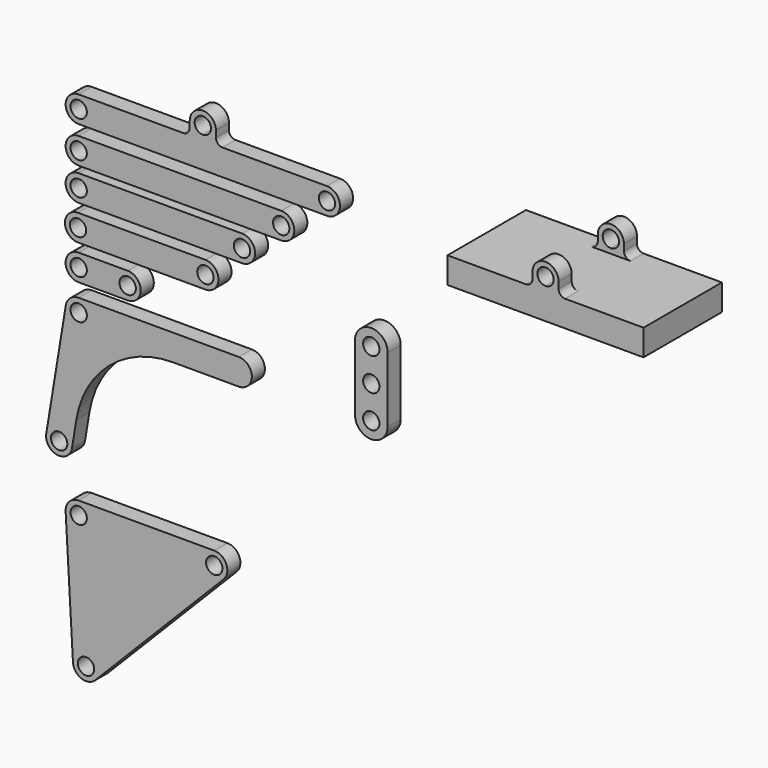
from build123d import *

# Parameters (mm, degrees)
F0_R      = 2.5
F1_DEPTH  = 5
F2_R      = 2.5
F3_DEPTH  = 5
F4_R      = 2.5
F5_DEPTH  = 5
F6_R      = 2.5
F7_DEPTH  = 5
F8_R      = 2.5
F9_DEPTH  = 5
F10_R     = 2.5
F11_DEPTH = 5
F12_R     = 2.5
F13_DEPTH = 5
F14_R     = 2.5
F15_DEPTH = 5
F17_DEPTH = 15
F18_W     = 20
F18_H     = 17.6143067669
F19_DEPTH = 190.8756025167


with BuildPart() as f1:
    # F0 (on Front) → F1 (new body)
    with BuildSketch(Plane.XZ):
        with BuildLine():
            Line((49, 4), (0, 4))
            ThreePointArc((0, 4), (-2.5898098924, 3.0484233173), (-3.9474184316, 0.6464423607))
            Line((-3.9474184316, 0.6464423607), (-9.9270102684, -35.8671781317))
            ThreePointArc((-9.9270102684, -35.8671781317), (-6.6260341975, -40.4610389241), (-2.0321734051, -37.1600628532))
            Line((-2.0321734051, -37.1600628532), (-0.7206943908, -29.1516822945))
            ThreePointArc((-0.7206943908, -29.1516822945), (9.4613696537, -11.1368251203), (28.8849438463, -4))
            Line((28.8849438463, -4), (49, -4))
            ThreePointArc((49, -4), (53, 0), (49, 4))
        make_face()
        with Locations((-5.9795918367, -36.5136204924)):
            Circle(F0_R, mode=Mode.SUBTRACT)
        Circle(F0_R, mode=Mode.SUBTRACT)
    extrude(amount=F1_DEPTH)


with BuildPart() as f3:
    # F2 (on Front) → F3 (new body)
    with BuildSketch(Plane.XZ):
        with BuildLine():
            Line((15, 16.1652341568), (0, 16.1652341568))
            ThreePointArc((0, 16.1652341568), (-4, 12.1652341568), (0, 8.1652341568))
            Line((0, 8.1652341568), (15, 8.1652341568))
            ThreePointArc((15, 8.1652341568), (19, 12.1652341568), (15, 16.1652341568))
        make_face()
        with Locations((0, 12.1652341568)):
            Circle(F2_R, mode=Mode.SUBTRACT)
        with Locations((15, 12.1652341568)):
            Circle(F2_R, mode=Mode.SUBTRACT)
    extrude(amount=F3_DEPTH)


with BuildPart() as f5:
    # F4 (on Front) → F5 (new body)
    with BuildSketch(Plane.XZ):
        with BuildLine():
            Line((38.7913448384, 26.839596495), (-0.2086551616, 26.839596495))
            ThreePointArc((-0.2086551616, 26.839596495), (-4.2086551616, 22.839596495), (-0.2086551616, 18.839596495))
            Line((-0.2086551616, 18.839596495), (38.7913448384, 18.839596495))
            ThreePointArc((38.7913448384, 18.839596495), (42.7913448384, 22.839596495), (38.7913448384, 26.839596495))
        make_face()
        with Locations((-0.2086551616, 22.839596495)):
            Circle(F4_R, mode=Mode.SUBTRACT)
        with Locations((38.7913448384, 22.839596495)):
            Circle(F4_R, mode=Mode.SUBTRACT)
    extrude(amount=F5_DEPTH)


with BuildPart() as f7:
    # F6 (on Front) → F7 (new body)
    with BuildSketch(Plane.XZ):
        with BuildLine():
            Line((50, 37.5731394589), (0, 37.5731394589))
            ThreePointArc((0, 37.5731394589), (-4, 33.5731394589), (0, 29.5731394589))
            Line((0, 29.5731394589), (50, 29.5731394589))
            ThreePointArc((50, 29.5731394589), (54, 33.5731394589), (50, 37.5731394589))
        make_face()
        with Locations((0, 33.5731394589)):
            Circle(F6_R, mode=Mode.SUBTRACT)
        with Locations((50, 33.5731394589)):
            Circle(F6_R, mode=Mode.SUBTRACT)
    extrude(amount=F7_DEPTH)


with BuildPart() as f9:
    # F8 (on Front) → F9 (new body)
    with BuildSketch(Plane.XZ):
        with BuildLine():
            Line((62, 47.6101034284), (0, 47.6101034284))
            ThreePointArc((0, 47.6101034284), (-4, 43.6101034284), (0, 39.6101034284))
            Line((0, 39.6101034284), (62, 39.6101034284))
            ThreePointArc((62, 39.6101034284), (66, 43.6101034284), (62, 47.6101034284))
        make_face()
        with Locations((0, 43.6101034284)):
            Circle(F8_R, mode=Mode.SUBTRACT)
        with Locations((62, 43.6101034284)):
            Circle(F8_R, mode=Mode.SUBTRACT)
    extrude(amount=F9_DEPTH)


with BuildPart() as f11:
    # F10 (on Front) → F11 (new body)
    with BuildSketch(Plane.XZ):
        with BuildLine():
            Line((32, 58.8052415252), (0, 58.8052415252))
            ThreePointArc((0, 58.8052415252), (-4, 54.8052415252), (0, 50.8052415252))
            Line((0, 50.8052415252), (38, 50.8052415252))
            Line((38, 50.8052415252), (76, 50.8052415252))
            ThreePointArc((76, 50.8052415252), (80, 54.8052415252), (76, 58.8052415252))
            Line((76, 58.8052415252), (44, 58.8052415252))
            ThreePointArc((44, 58.8052415252), (42.5857864376, 59.3910279628), (42, 60.8052415252))
            Line((42, 60.8052415252), (42, 62.8052415252))
            ThreePointArc((42, 62.8052415252), (38, 66.8052415252), (34, 62.8052415252))
            Line((34, 62.8052415252), (34, 60.8052415252))
            ThreePointArc((34, 60.8052415252), (33.4142135624, 59.3910279628), (32, 58.8052415252))
        make_face()
        with Locations((0, 54.8052415252)):
            Circle(F10_R, mode=Mode.SUBTRACT)
        with Locations((76, 54.8052415252)):
            Circle(F10_R, mode=Mode.SUBTRACT)
        with BuildLine():
            ThreePointArc((38, 60.3052415252), (36.232233047, 64.5730084781), (40.5, 62.8052415252))
            ThreePointArc((40.5, 62.8052415252), (39.767766953, 61.0374745722), (38, 60.3052415252))
        make_face(mode=Mode.SUBTRACT)
    extrude(amount=F11_DEPTH)


with BuildPart() as f13:
    # F12 (on Front) → F13 (new body)
    with BuildSketch(Plane.XZ):
        with BuildLine():
            Line((41.5, -50.6333938837), (0, -50.6333938837))
            ThreePointArc((0, -50.6333938837), (-2.9066811281, -51.8854483203), (-3.9937007551, -54.8577914741))
            Line((-3.9937007551, -54.8577914741), (-1.7497248515, -94.7947990253))
            ThreePointArc((-1.7497248515, -94.7947990253), (0.8336240532, -98.313516135), (5.0966193001, -97.3744031561))
            Line((5.0966193001, -97.3744031561), (44.3526433965, -57.4373956049))
            ThreePointArc((44.3526433965, -57.4373956049), (45.1889027423, -53.0867858022), (41.5, -50.6333938837))
        make_face()
        with Locations((2.2439759036, -94.5704014349)):
            Circle(F12_R, mode=Mode.SUBTRACT)
        with Locations((0, -54.6333938837)):
            Circle(F12_R, mode=Mode.SUBTRACT)
        with Locations((41.5, -54.6333938837)):
            Circle(F12_R, mode=Mode.SUBTRACT)
    extrude(amount=F13_DEPTH)


with BuildPart() as f15:
    # F14 (on Front) → F15 (new body)
    with BuildSketch(Plane.XZ):
        with BuildLine():
            Line((94.5674824715, 0), (94.5674824715, 20))
            ThreePointArc((94.5674824715, 20), (89.5674824715, 25), (84.5674824715, 20))
            Line((84.5674824715, 20), (84.5674824715, 0))
            ThreePointArc((84.5674824715, 0), (89.5674824715, -5), (94.5674824715, 0))
        make_face()
        with Locations((89.5674824715, 0)):
            Circle(F14_R, mode=Mode.SUBTRACT)
        with Locations((89.5674824715, 10)):
            Circle(F14_R, mode=Mode.SUBTRACT)
        with Locations((89.5674824715, 20)):
            Circle(F14_R, mode=Mode.SUBTRACT)
    extrude(amount=F15_DEPTH)


with BuildPart() as f17:
    # F16 (on Front) → F17 (new body, symmetric)
    with BuildSketch(Plane.XZ):
        with BuildLine():
            Line((144.89501068, 58.8318139259), (120.89501068, 58.8318139259))
            Line((120.89501068, 58.8318139259), (120.89501068, 50.8318139259))
            Line((120.89501068, 50.8318139259), (180.89501068, 50.8318139259))
            Line((180.89501068, 50.8318139259), (180.89501068, 58.8318139259))
            Line((180.89501068, 58.8318139259), (156.89501068, 58.8318139259))
            ThreePointArc((156.89501068, 58.8318139259), (155.4807971176, 59.4176003635), (154.89501068, 60.8318139259))
            Line((154.89501068, 60.8318139259), (154.89501068, 62.8318139259))
            ThreePointArc((154.89501068, 62.8318139259), (150.89501068, 66.8318139259), (146.89501068, 62.8318139259))
            Line((146.89501068, 62.8318139259), (146.89501068, 60.8318139259))
            ThreePointArc((146.89501068, 60.8318139259), (146.3092242423, 59.4176003635), (144.89501068, 58.8318139259))
        make_face()
        with BuildLine():
            ThreePointArc((150.89501068, 60.3318139259), (149.127243727, 64.5995808788), (153.39501068, 62.8318139259))
            ThreePointArc((153.39501068, 62.8318139259), (152.6627776329, 61.0640469729), (150.89501068, 60.3318139259))
        make_face(mode=Mode.SUBTRACT)
    extrude(amount=F17_DEPTH, both=True)

    # F18 (on face) → F19 (cut, through all)
    with BuildSketch(Plane.YZ.offset(180.89501068)):
        with Locations((0, 67.6389673093)):
            Rectangle(F18_W, F18_H)
    extrude(amount=-F19_DEPTH, mode=Mode.SUBTRACT)


solid = Compound([f1.part, f3.part, f5.part, f7.part, f9.part, f11.part, f13.part, f15.part, f17.part])
